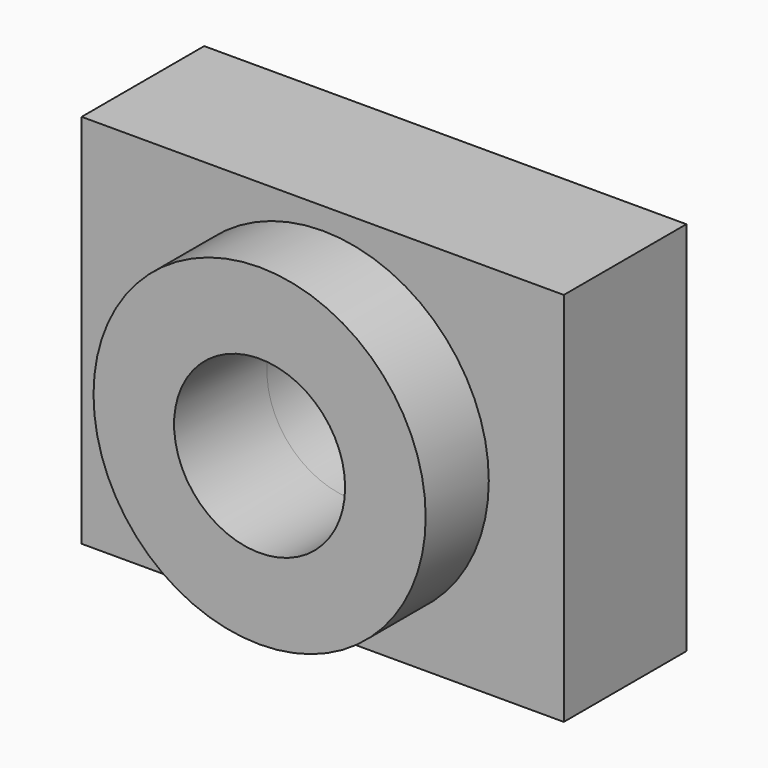
from build123d import *

# Parameters (mm, degrees)
F0_R          = 35.778337
F0_R_2        = 18.424751
F1_DEPTH      = 25
F1_DEPTH_BACK = 25
F0_W          = 103.87025
F0_H          = 80.97905
F2_DEPTH      = 8
F2_DEPTH_BACK = 25


with BuildPart() as f1:
    # F0 (on Front) → F1 (new body, two sides)
    with BuildSketch(Plane.XZ) as f1_sk:
        Circle(F0_R)
        Circle(F0_R_2, mode=Mode.SUBTRACT)
    extrude(amount=F1_DEPTH)
    extrude(f1_sk.sketch, amount=-F1_DEPTH_BACK)

    # F0 (on Front) → F2 (join, two sides)
    with BuildSketch(Plane.XZ) as f2_sk:
        Rectangle(F0_W, F0_H)
        Circle(F0_R, mode=Mode.SUBTRACT)
    extrude(amount=F2_DEPTH)
    extrude(f2_sk.sketch, amount=-F2_DEPTH_BACK)


solid = f1.part
